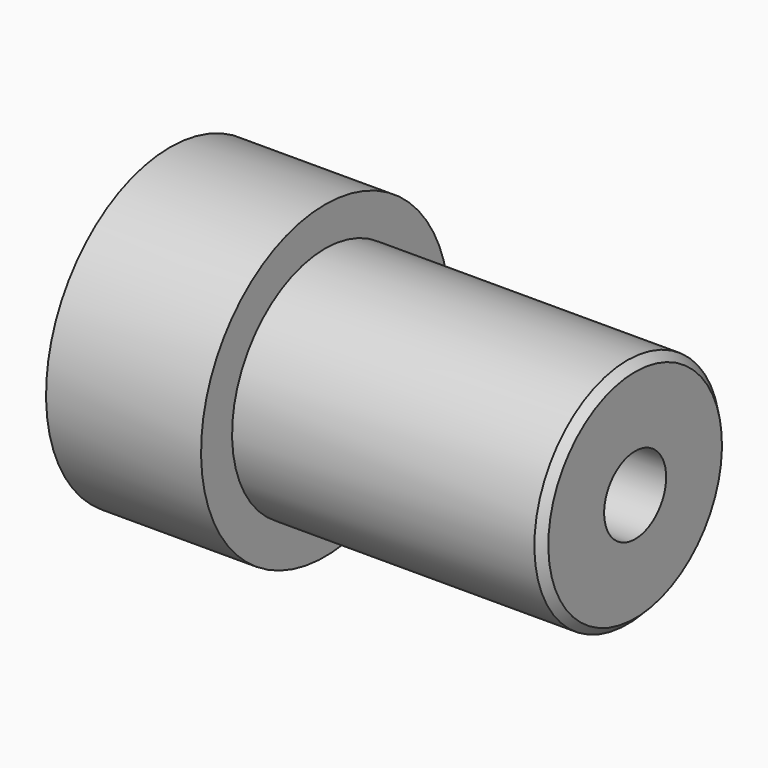
from build123d import *

# Parameters (mm, degrees)
F2_SIZE  = 1
F3_R     = 5
F4_DEPTH = 60.001


with BuildPart() as f1:
    # F0 (on Front) → F1 (revolve)
    with BuildSketch(Plane.XZ):
        Polygon((-45.251393, 20), (-45.251393, 0), (14.748607, 0), (14.748607, 15), (-25.251393, 15), (-25.251393, 20), align=None)
    revolve(axis=Axis((-14.02186, 0, 0), (1, 0, 0)))

    # F2
    f2_edges = [f1.edges().sort_by_distance(p)[0] for p in [
        (14.748607, 0, -15),
    ]]
    chamfer(f2_edges, length=F2_SIZE)

    # F3 (on face) → F4 (cut, through all)
    with BuildSketch(Plane.YZ.offset(14.748607)):
        Circle(F3_R)
    extrude(amount=-F4_DEPTH, mode=Mode.SUBTRACT)


solid = f1.part
